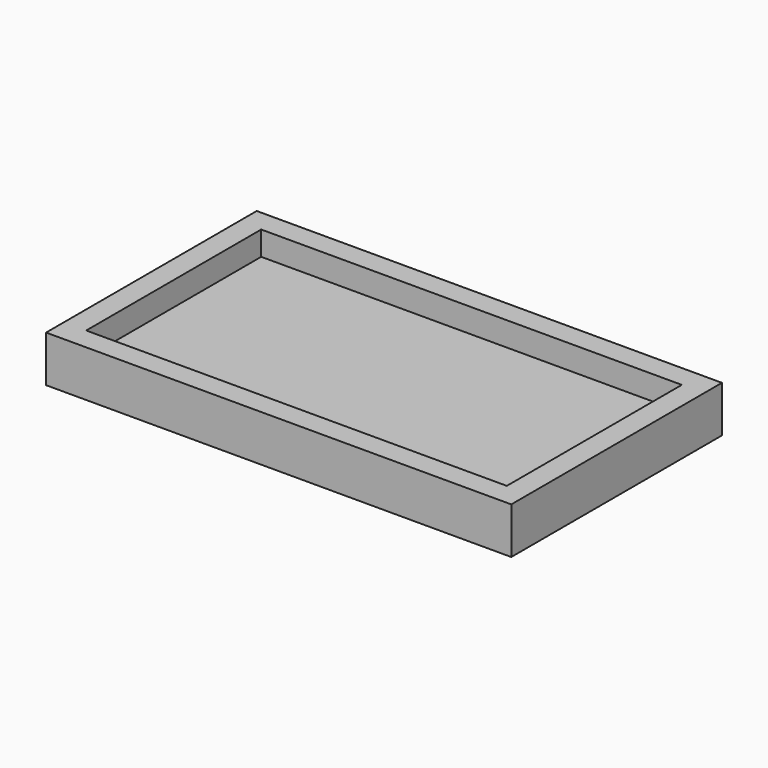
from build123d import *

# Parameters (mm, degrees)
F0_W     = 1060
F0_H     = 600
F1_DEPTH = 4
F2_W     = 1060
F2_H     = 600
F3_DEPTH = 101.6
F4_T     = -50.8


with BuildPart() as f1:
    # F0 (on Top) → F1 (new body)
    with BuildSketch(Plane.XY):
        with Locations((530, -300)):
            Rectangle(F0_W, F0_H)
    extrude(amount=F1_DEPTH)

    # F2 (on face) → F3 (join)
    with BuildSketch(Plane.XY.offset(4)):
        with Locations((530, -300)):
            Rectangle(F2_W, F2_H)
    extrude(amount=F3_DEPTH)

    # F4
    f4_openings = [f1.faces().sort_by_distance(p)[0] for p in [
        (530, -300, 105.6),
    ]]
    offset(amount=F4_T, openings=f4_openings)


solid = f1.part
